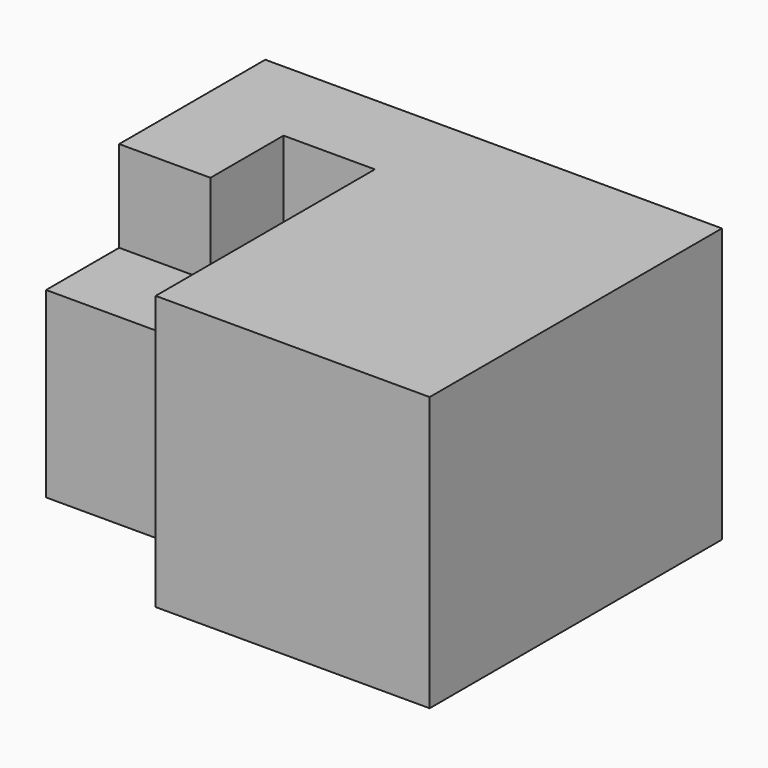
from build123d import *

# Parameters (mm, degrees)
F0_W     = 25.4
F0_H     = 25.4
F1_DEPTH = 25.4
F2_DEPTH = 50.8
F3_DEPTH = 76.2
F4_DEPTH = 101.6


with BuildPart() as f1:
    # F0 (on Front) → F1 (new body)
    with BuildSketch(Plane.XZ):
        with Locations((-88.9, 63.5)):
            Rectangle(F0_W, F0_H)
    extrude(amount=F1_DEPTH)

    # F0 (on Front) → F2 (join)
    with BuildSketch(Plane.XZ):
        with Locations((-114.3, 63.5)):
            Rectangle(F0_W, F0_H)
    extrude(amount=F2_DEPTH)

    # F0 (on Front) → F3 (join)
    with BuildSketch(Plane.XZ):
        Polygon((-101.6, 50.8), (-127, 50.8), (-127, 0), (-76.2, 0), (-76.2, 50.8), align=None)
    extrude(amount=F3_DEPTH)

    # F0 (on Front) → F4 (join)
    with BuildSketch(Plane.XZ):
        Polygon((0, 76.2), (-76.2, 76.2), (-76.2, 50.8), (-76.2, 0), (0, 0), align=None)
    extrude(amount=F4_DEPTH)


solid = f1.part
